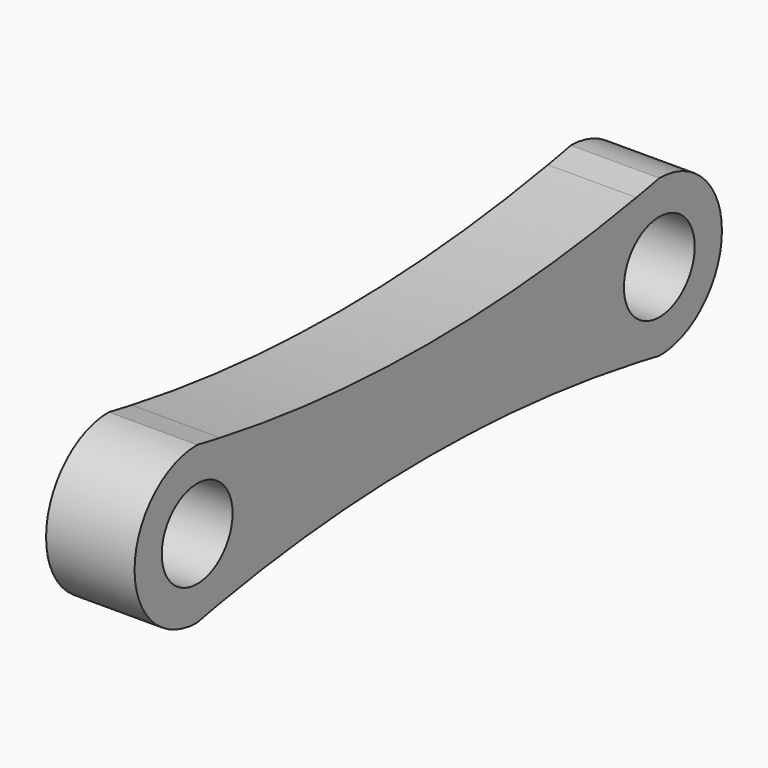
from build123d import *

# Parameters (mm, degrees)
F0_R     = 0.79375
F1_DEPTH = 0.79375
F2_DEPTH = 0.79375


with BuildPart() as f1:
    # F0 (on Right) → F1 (new body, symmetric)
    with BuildSketch(Plane.YZ):
        with BuildLine():
            ThreePointArc((0, 1.4037669339), (-1.4037669339, 0), (0, -1.4037669339))
            ThreePointArc((0, -1.4037669339), (0.2572425005, -1.3535524165), (0.514971299, -1.3058966904))
            ThreePointArc((0.514971299, -1.3058966904), (0.9280346585, -1.0532394207), (1.2306806356, -0.6752679304))
            ThreePointArc((1.2306806356, -0.6752679304), (5.1816, -0.3836434905), (9.1325193644, -0.6752679304))
            ThreePointArc((9.1325193644, -0.6752679304), (9.4351653415, -1.0532394207), (9.848228701, -1.3058966904))
            ThreePointArc((9.848228701, -1.3058966904), (10.1059574995, -1.3535524165), (10.3632, -1.4037669339))
            ThreePointArc((10.3632, -1.4037669339), (11.7669669339, 0), (10.3632, 1.4037669339))
            ThreePointArc((10.3632, 1.4037669339), (10.1059574995, 1.3535524165), (9.848228701, 1.3058966904))
            ThreePointArc((9.848228701, 1.3058966904), (9.4351653415, 1.0532394207), (9.1325193644, 0.6752679304))
            ThreePointArc((9.1325193644, 0.6752679304), (5.1816, 0.3836434905), (1.2306806356, 0.6752679304))
            ThreePointArc((1.2306806356, 0.6752679304), (0.9280346585, 1.0532394207), (0.514971299, 1.3058966904))
            ThreePointArc((0.514971299, 1.3058966904), (0.2572425005, 1.3535524165), (0, 1.4037669339))
        make_face()
        Circle(F0_R, mode=Mode.SUBTRACT)
        with Locations((10.3632, 0)):
            Circle(F0_R, mode=Mode.SUBTRACT)
    extrude(amount=F1_DEPTH, both=True)

    # F0 (on Right) → F2 (join, symmetric)
    with BuildSketch(Plane.YZ):
        with BuildLine():
            ThreePointArc((9.848228701, 1.3058966904), (5.1816, 0.889766314), (0.514971299, 1.3058966904))
            ThreePointArc((0.514971299, 1.3058966904), (0.9280346585, 1.0532394207), (1.2306806356, 0.6752679304))
            ThreePointArc((1.2306806356, 0.6752679304), (5.1816, 0.3836434905), (9.1325193644, 0.6752679304))
            ThreePointArc((9.1325193644, 0.6752679304), (9.4351653415, 1.0532394207), (9.848228701, 1.3058966904))
        make_face()
        with BuildLine():
            ThreePointArc((1.2306806356, -0.6752679304), (0.9280346585, -1.0532394207), (0.514971299, -1.3058966904))
            ThreePointArc((0.514971299, -1.3058966904), (5.1816, -0.889766314), (9.848228701, -1.3058966904))
            ThreePointArc((9.848228701, -1.3058966904), (9.4351653415, -1.0532394207), (9.1325193644, -0.6752679304))
            ThreePointArc((9.1325193644, -0.6752679304), (5.1816, -0.3836434905), (1.2306806356, -0.6752679304))
        make_face()
    extrude(amount=F2_DEPTH, both=True)


solid = f1.part
